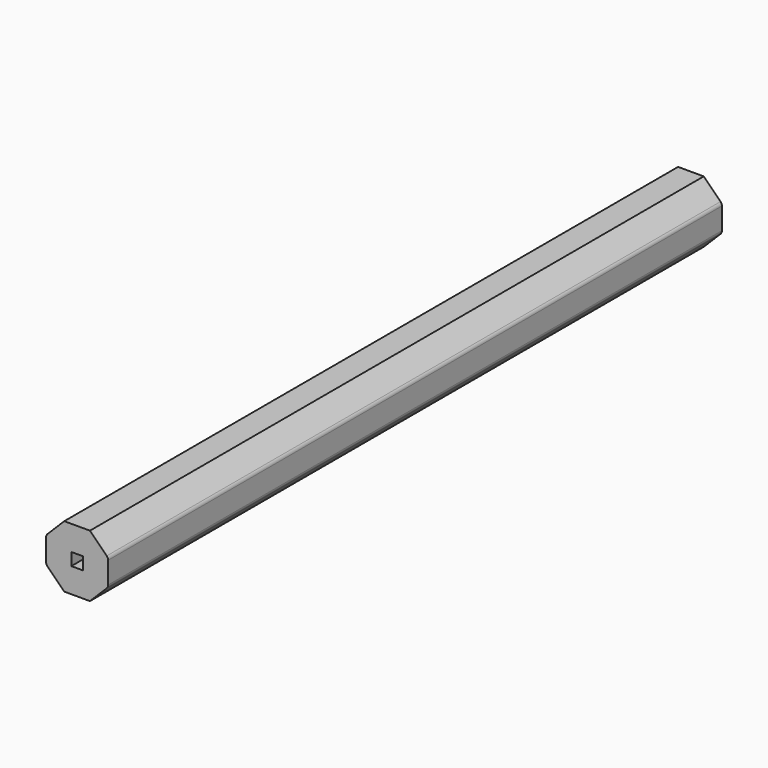
from build123d import *

# Parameters (mm, degrees)
SKETCH_W  = 0.6
SKETCH_H  = 0.65
PAD_DEPTH = 20
FILLET_R  = 0.25


with BuildPart() as part:
    # Sketch → Pad (new body, symmetric)
    with BuildSketch(Plane.XZ):
        Polygon((0.669696, 1.616789), (-0.669696, 1.616789), (-1.616789, 0.669696), (-1.616789, -0.669696), (-0.669696, -1.616789), (0.669696, -1.616789), (1.616789, -0.669696), (1.616789, 0.669696), align=None)
        Rectangle(SKETCH_W, SKETCH_H, mode=Mode.SUBTRACT)
    extrude(amount=PAD_DEPTH, both=True)

    # Fillet
    fillet_edges = [part.edges().sort_by_distance(p)[0] for p in [
        (-1.616789, 0, 0.669696),
        (-1.616789, 0, -0.669696),
        (1.616789, 0, 0.669696),
        (1.616789, 0, -0.669696),
    ]]
    fillet(fillet_edges, radius=FILLET_R)


solid = part.part
